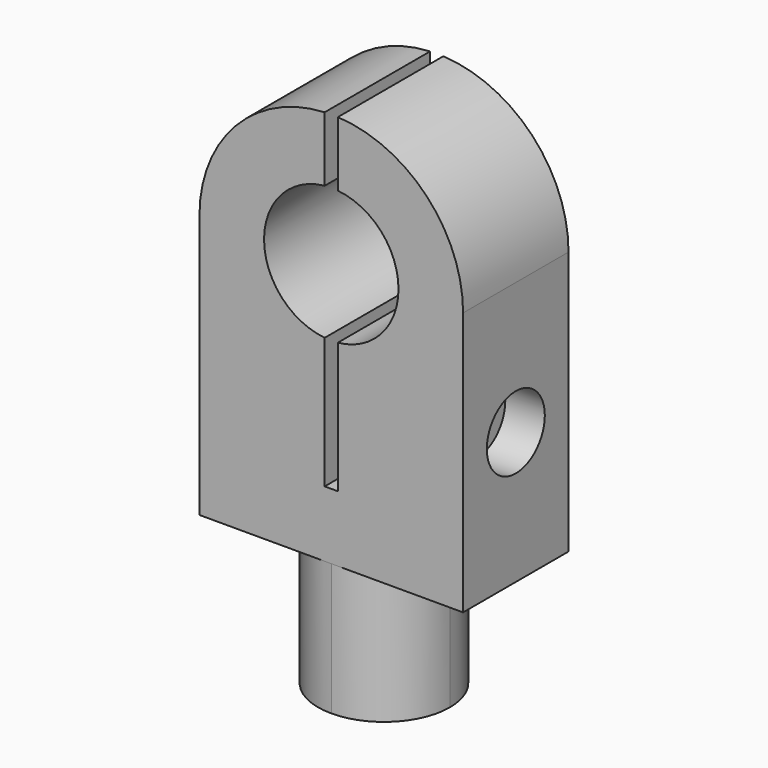
from build123d import *

# Parameters (mm, degrees)
F0_R      = 5.1
F1_DEPTH  = 10
F2_R      = 1.5
F3_DEPTH  = 25
F5_DEPTH  = 25
F7_DEPTH  = 10
F8_R      = 2.75
F8_R_2    = 1.5
F9_DEPTH  = 3
F10_R     = 1.5
F11_DEPTH = 2


with BuildPart() as f1:
    # F0 (on Front) → F1 (new body)
    with BuildSketch(Plane.XZ):
        with BuildLine():
            ThreePointArc((-10, 0), (0, -10), (10, 0))
            ThreePointArc((10, 0), (0, 10), (-10, 0))
        make_face()
        Circle(F0_R, mode=Mode.SUBTRACT)
        with BuildLine():
            Line((10, -20), (10, 0))
            ThreePointArc((10, 0), (0, -10), (-10, 0))
            Line((-10, 0), (-10, -20))
            Line((-10, -20), (10, -20))
        make_face()
    extrude(amount=F1_DEPTH)

    # F2 (on face) → F3 (cut)
    with BuildSketch(Plane(origin=(-10, 0, 0), x_dir=(0, -1, 0), z_dir=(-1, 0, 0))):
        with Locations((5, -10)):
            Circle(F2_R)
    extrude(amount=-F3_DEPTH, mode=Mode.SUBTRACT)

    # F4 (on face) → F5 (cut)
    with BuildSketch(Plane.XZ.offset(10)):
        with BuildLine():
            Line((0.5, 12.5812012702), (-0.5, 12.5812012702))
            Line((-0.5, 12.5812012702), (-0.5, 9.9874921777))
            ThreePointArc((-0.5, 9.9874921777), (0, 10), (0.5, 9.9874921777))
            Line((0.5, 9.9874921777), (0.5, 12.5812012702))
        make_face()
        with BuildLine():
            ThreePointArc((0.5, 9.9874921777), (0, 10), (-0.5, 9.9874921777))
            Line((-0.5, 9.9874921777), (-0.5, 5.0754310162))
            ThreePointArc((-0.5, 5.0754310162), (0, 5.1), (0.5, 5.0754310162))
            Line((0.5, 5.0754310162), (0.5, 9.9874921777))
        make_face()
        with BuildLine():
            ThreePointArc((0.5, -5.0754310162), (0, -5.1), (-0.5, -5.0754310162))
            Line((-0.5, -5.0754310162), (-0.5, -15))
            Line((-0.5, -15), (0.5, -15))
            Line((0.5, -15), (0.5, -5.0754310162))
        make_face()
        with BuildLine():
            ThreePointArc((0.5, 5.0754310162), (0, 5.1), (-0.5, 5.0754310162))
            Line((-0.5, 5.0754310162), (-0.5, -5.0754310162))
            ThreePointArc((-0.5, -5.0754310162), (0, -5.1), (0.5, -5.0754310162))
            Line((0.5, -5.0754310162), (0.5, 5.0754310162))
        make_face()
    extrude(amount=-F5_DEPTH, mode=Mode.SUBTRACT)

    # F6 (on face) → F7 (join)
    with BuildSketch(Plane(origin=(0, 0, -20), x_dir=(1, 0, 0), z_dir=(0, 0, -1))):
        with BuildLine():
            ThreePointArc((0, 0), (3.5355339059, 1.4644660941), (5, 5))
            ThreePointArc((5, 5), (3.5355339059, 8.5355339059), (0, 10))
            ThreePointArc((0, 10), (-5, 5), (0, 0))
        make_face()
    extrude(amount=F7_DEPTH)

    # F8 (on face) → F9 (cut)
    with BuildSketch(Plane.YZ.offset(10)):
        with Locations((-5, -10)):
            Circle(F8_R)
        with Locations((-5, -10)):
            Circle(F8_R_2, mode=Mode.SUBTRACT)
    extrude(amount=-F9_DEPTH, mode=Mode.SUBTRACT)

    # F10 (on face) → F11 (cut)
    with BuildSketch(Plane(origin=(-10, 0, 0), x_dir=(0, -1, 0), z_dir=(-1, 0, 0))):
        Polygon((7.75, -11.5877132403), (7.75, -8.4122867597), (5, -6.8245735195), (2.25, -8.4122867597), (2.25, -11.5877132403), (5, -13.1754264805), align=None)
        with Locations((5, -10)):
            Circle(F10_R, mode=Mode.SUBTRACT)
    extrude(amount=-F11_DEPTH, mode=Mode.SUBTRACT)


solid = f1.part
